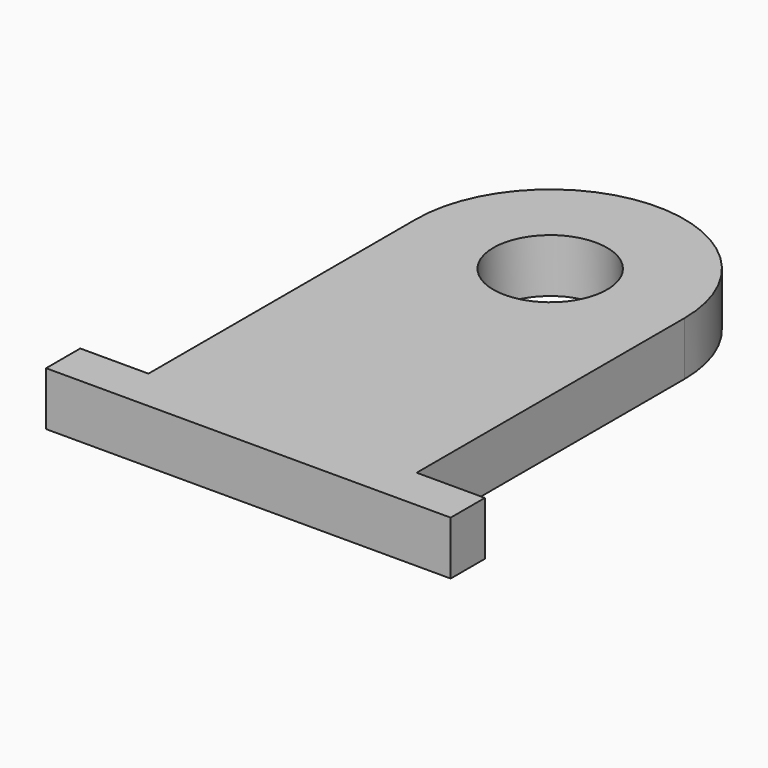
from build123d import *

# Parameters (mm, degrees)
F1_DEPTH = 2.9972


with BuildPart() as f1:
    # F0 (on Top) → F1 (new body)
    with BuildSketch(Plane.XY):
        with BuildLine():
            Line((-3.175, 0), (-7.493, 0))
            Line((-7.493, 0), (-7.493, -18.6944))
            Line((-7.493, -18.6944), (-11.303, -18.6944))
            Line((-11.303, -18.6944), (-11.303, -21.082))
            Line((-11.303, -21.082), (11.303, -21.082))
            Line((11.303, -21.082), (11.303, -18.6944))
            Line((11.303, -18.6944), (7.493, -18.6944))
            Line((7.493, -18.6944), (7.493, 0))
            Line((7.493, 0), (3.175, 0))
            ThreePointArc((3.175, 0), (0, -3.175), (-3.175, 0))
        make_face()
        with BuildLine():
            ThreePointArc((7.493, 0), (0, 7.493), (-7.493, 0))
            Line((-7.493, 0), (-3.175, 0))
            ThreePointArc((-3.175, 0), (0, 3.175), (3.175, 0))
            Line((3.175, 0), (7.493, 0))
        make_face()
    extrude(amount=F1_DEPTH)


solid = f1.part
